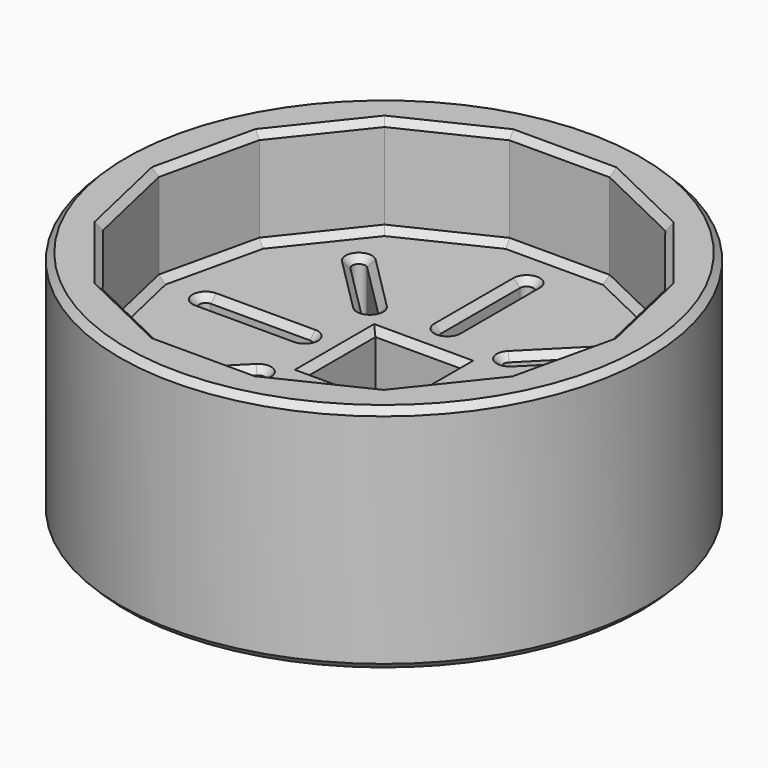
from build123d import *

# Parameters (mm, degrees)
SKETCH_R              = 40
PAD_DEPTH             = 15
SKETCH001_R           = 40
SKETCH001_W           = 13
SKETCH001_H           = 13
PAD001_DEPTH          = 20
CHAMFER_SIZE          = 1
POCKET_DEPTH          = 256.855386
POLARPATTERN_COUNT    = 4
POCKET001_DEPTH       = 256.855386
POLARPATTERN001_COUNT = 4
CHAMFER001_SIZE       = 1


with BuildPart() as part:
    # Sketch → Pad (new body)
    with BuildSketch(Plane.XY):
        Circle(SKETCH_R)
        Polygon((30.72762, -14.797642), (34.105086, 0), (30.72762, 14.797642), (21.264173, 26.66443), (7.589096, 33.25), (-7.589096, 33.25), (-21.264173, 26.66443), (-30.72762, 14.797642), (-34.105086, 0), (-30.72762, -14.797642), (-21.264173, -26.66443), (-7.589096, -33.25), (7.589096, -33.25), (21.264173, -26.66443), align=None, mode=Mode.SUBTRACT)
    extrude(amount=PAD_DEPTH)

    # Sketch001 (on Face16 of Pad) → Pad001 (join)
    with BuildSketch(Plane(origin=(0, 0, 0), x_dir=(1, 0, 0), z_dir=(0, 0, -1))):
        Circle(SKETCH001_R)
        Rectangle(SKETCH001_W, SKETCH001_H, mode=Mode.SUBTRACT)
    extrude(amount=PAD001_DEPTH)

    # Chamfer
    chamfer_edges = [part.edges().sort_by_distance(p)[0] for p in [
        (-40, 0, 15),
        (-40, 0, -20),
        (0, -6.5, -20),
        (6.5, 0, -20),
        (0, 6.5, -20),
        (-6.5, 0, -20),
        (32.416353, -7.398821, 15),
        (32.416353, 7.398821, 15),
        (25.995897, 20.731036, 15),
        (14.426634, 29.957215, 15),
        (0, 33.25, 15),
        (-14.426634, 29.957215, 15),
        (-25.995897, 20.731036, 15),
        (-32.416353, 7.398821, 15),
        (-32.416353, -7.398821, 15),
        (-25.995897, -20.731036, 15),
        (-14.426634, -29.957215, 15),
        (0, -33.25, 15),
        (14.426634, -29.957215, 15),
        (25.995897, -20.731036, 15),
        (25.995897, -20.731036, 0),
        (14.426634, -29.957215, 0),
        (0, -33.25, 0),
        (-14.426634, -29.957215, 0),
        (-25.995897, -20.731036, 0),
        (-32.416353, -7.398821, 0),
        (-32.416353, 7.398821, 0),
        (-25.995897, 20.731036, 0),
        (-14.426634, 29.957215, 0),
        (0, 33.25, 0),
        (14.426634, 29.957215, 0),
        (25.995897, 20.731036, 0),
        (32.416353, 7.398821, 0),
        (32.416353, -7.398821, 0),
        (0, -6.5, 0),
        (-6.5, 0, 0),
        (6.5, 0, 0),
        (0, 6.5, 0),
    ]]
    chamfer(chamfer_edges, length=CHAMFER_SIZE)

    # Sketch002 (on Face57 of Chamfer) → Pocket (cut, through all)
    with BuildSketch(Plane.XY):
        with BuildLine():
            ThreePointArc((-1, 12), (0, 11), (1, 12))
            Line((1, 12), (1, 27))
            ThreePointArc((1, 27), (0, 28), (-1, 27))
            Line((-1, 27), (-1, 12))
        make_face()
    pocket = extrude(amount=-POCKET_DEPTH, mode=Mode.SUBTRACT)

    # PolarPattern: Pocket ×4 about axis
    polarpattern_axis = Axis((0, 0, 0), (0, 0, 1))
    for i in range(1, POLARPATTERN_COUNT):
        add(pocket.rotate(polarpattern_axis, i * 360 / POLARPATTERN_COUNT), mode=Mode.SUBTRACT)

    # Sketch003 (on Face69 of PolarPattern) → Pocket001 (cut, through all)
    with BuildSketch(Plane.XY):
        with BuildLine():
            ThreePointArc((-11.313708, 9.899495), (-9.899495, 9.899495), (-9.899495, 11.313708))
            Line((-9.899495, 11.313708), (-18.384776, 19.79899))
            ThreePointArc((-18.384776, 19.79899), (-19.79899, 19.79899), (-19.79899, 18.384776))
            Line((-19.79899, 18.384776), (-11.313708, 9.899495))
        make_face()
    pocket001 = extrude(amount=-POCKET001_DEPTH, mode=Mode.SUBTRACT)

    # PolarPattern001: Pocket001 ×4 about axis
    polarpattern001_axis = Axis((0, 0, 0), (0, 0, 1))
    for i in range(1, POLARPATTERN001_COUNT):
        add(pocket001.rotate(polarpattern001_axis, i * 360 / POLARPATTERN001_COUNT), mode=Mode.SUBTRACT)

    # Chamfer001
    chamfer001_edges = [part.edges().sort_by_distance(p)[0] for p in [
        (-19.79899, 19.79899, 0),
        (-28, 0, 0),
        (-19.79899, -19.79899, 0),
        (0, -28, 0),
        (19.79899, -19.79899, 0),
        (28, 0, 0),
        (19.79899, 19.79899, 0),
        (0, 28, 0),
        (0, -28, -20),
        (-19.79899, -19.79899, -20),
        (-28, 0, -20),
        (-19.79899, 19.79899, -20),
        (0, 28, -20),
        (19.79899, 19.79899, -20),
        (28, 0, -20),
        (19.79899, -19.79899, -20),
    ]]
    chamfer(chamfer001_edges, length=CHAMFER001_SIZE)


solid = part.part
